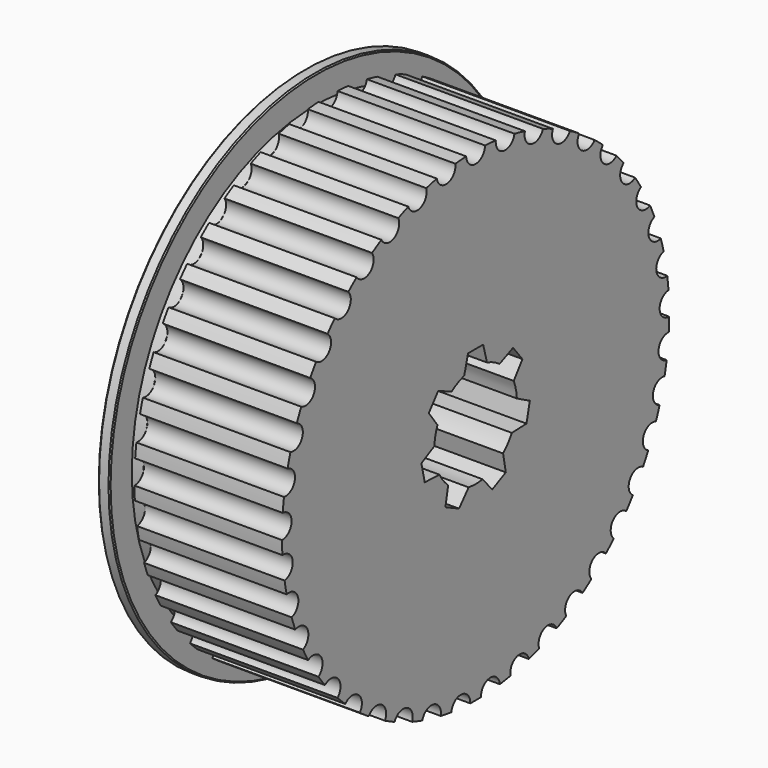
from build123d import *

# Parameters (mm, degrees)
F0_DEPTH  = 31.75
F1_R      = 49.611525
F2_DEPTH  = 2.54
F3_R      = 55.5625
F3_R_2    = 49.611525
F4_DEPTH  = 2.54
F2_FACE_R = 49.611525
F5_DEPTH  = 2.54
F6_SIZE   = 0.254
F8_DEPTH  = 36.831


with BuildPart() as f0:
    # F9 (on Right) → F0 (new body)
    with BuildSketch(Plane.YZ):
        with BuildLine():
            ThreePointArc((2.539244, 52.008049), (0, 49.53), (-2.539244, 52.008049))
            ThreePointArc((-2.539244, 52.008049), (-3.98592, 51.917216), (-5.429506, 51.78615))
            ThreePointArc((-5.429506, 51.78615), (-7.560719, 48.949529), (-10.448477, 51.010923))
            ThreePointArc((-10.448477, 51.010923), (-11.864332, 50.700321), (-13.270993, 50.350428))
            ThreePointArc((-13.270993, 50.350428), (-14.944221, 47.221723), (-18.112806, 48.818144))
            ThreePointArc((-18.112806, 48.818144), (-19.464655, 48.295053), (-20.80142, 47.734535))
            ThreePointArc((-20.80142, 47.734535), (-21.977444, 44.38708), (-25.352586, 45.481109))
            ThreePointArc((-25.352586, 45.481109), (-26.608743, 44.757789), (-27.844278, 43.999785))
            ThreePointArc((-27.844278, 43.999785), (-28.495533, 40.512041), (-31.998123, 41.078035))
            ThreePointArc((-31.998123, 41.078035), (-33.129144, 40.171442), (-34.234491, 39.233717))
            ThreePointArc((-34.234491, 39.233717), (-34.345712, 35.687435), (-37.893652, 35.712128))
            ThreePointArc((-37.893652, 35.712128), (-38.873026, 34.643509), (-39.822276, 33.548044))
            ThreePointArc((-39.822276, 33.548044), (-39.390856, 30.026345), (-42.900985, 29.509158))
            ThreePointArc((-42.900985, 29.509158), (-43.705758, 28.303562), (-44.476661, 27.076033))
            ThreePointArc((-44.476661, 27.076033), (-43.512712, 23.661463), (-46.902755, 22.614518))
            ThreePointArc((-46.902755, 22.614518), (-47.514063, 21.300204), (-48.08855, 19.969383))
            ThreePointArc((-48.08855, 19.969383), (-46.614667, 16.741976), (-49.805165, 15.189814))
            ThreePointArc((-49.805165, 15.189814), (-50.20868, 13.797587), (-50.573285, 12.394667))
            ThreePointArc((-50.573285, 12.394667), (-48.624013, 9.430072), (-51.540184, 7.409073))
            ThreePointArc((-51.540184, 7.409073), (-51.726447, 5.971566), (-51.872624, 4.529431))
            ThreePointArc((-51.872624, 4.529431), (-49.493654, 1.897134), (-52.067144, -0.545331))
            ThreePointArc((-52.067144, -0.545331), (-52.03179, -1.994423), (-51.956114, -3.441971))
            ThreePointArc((-51.956114, -3.441971), (-49.203206, -5.68027), (-51.373695, -8.486952))
            ThreePointArc((-51.373695, -8.486952), (-51.117552, -9.913665), (-50.821796, -11.332696))
            ThreePointArc((-50.821796, -11.332696), (-47.759476, -13.124534), (-49.47609, -16.229646))
            ThreePointArc((-49.47609, -16.229646), (-49.005162, -17.600539), (-48.496258, -18.957792))
            ThreePointArc((-48.496258, -18.957792), (-45.196304, -20.26117), (-46.418807, -23.591931))
            ThreePointArc((-46.418807, -23.591931), (-45.744133, -24.874871), (-45.034009, -26.138534))
            ThreePointArc((-45.034009, -26.138534), (-41.57377, -26.922901), (-42.273507, -30.401242))
            ThreePointArc((-42.273507, -30.401242), (-41.4109, -31.566157), (-40.516201, -32.70661))
            ThreePointArc((-40.516201, -32.70661), (-36.976781, -32.953582), (-37.137352, -36.497973))
            ThreePointArc((-37.137352, -36.497973), (-36.10703, -37.517559), (-35.048728, -38.508072))
            ThreePointArc((-35.048728, -38.508072), (-31.513088, -38.211859), (-31.130728, -41.739222))
            ThreePointArc((-31.130728, -41.739222), (-29.956843, -42.589582), (-28.759742, -43.406937))
            ThreePointArc((-28.759742, -43.406937), (-25.310755, -42.574483), (-24.394427, -46.002139))
            ThreePointArc((-24.394427, -46.002139), (-23.104492, -46.663341), (-21.796652, -47.28838))
            ThreePointArc((-21.796652, -47.28838), (-18.51516, -45.939196), (-17.086341, -49.186806))
            ThreePointArc((-17.086341, -49.186806), (-15.710592, -49.64335), (-14.322667, -50.061423))
            ThreePointArc((-14.322667, -50.061423), (-11.285584, -48.227134), (-9.377766, -51.218575))
            ThreePointArc((-9.377766, -51.218575), (-7.948448, -51.459762), (-6.512971, -51.66107))
            ThreePointArc((-6.512971, -51.66107), (-3.791484, -49.384669), (-1.449384, -52.049824))
            ThreePointArc((-1.449384, -52.049824), (0, -52.07), (1.449384, -52.049824))
            ThreePointArc((1.449384, -52.049824), (3.791484, -49.384669), (6.512971, -51.66107))
            ThreePointArc((6.512971, -51.66107), (7.948448, -51.459762), (9.377766, -51.218575))
            ThreePointArc((9.377766, -51.218575), (11.285584, -48.227134), (14.322667, -50.061423))
            ThreePointArc((14.322667, -50.061423), (15.710592, -49.64335), (17.086341, -49.186806))
            ThreePointArc((17.086341, -49.186806), (18.51516, -45.939196), (21.796652, -47.28838))
            ThreePointArc((21.796652, -47.28838), (23.104492, -46.663341), (24.394427, -46.002139))
            ThreePointArc((24.394427, -46.002139), (25.310755, -42.574483), (28.759742, -43.406937))
            ThreePointArc((28.759742, -43.406937), (29.956843, -42.589582), (31.130728, -41.739222))
            ThreePointArc((31.130728, -41.739222), (31.513088, -38.211859), (35.048728, -38.508072))
            ThreePointArc((35.048728, -38.508072), (36.10703, -37.517559), (37.137352, -36.497973))
            ThreePointArc((37.137352, -36.497973), (36.976781, -32.953582), (40.516201, -32.70661))
            ThreePointArc((40.516201, -32.70661), (41.4109, -31.566157), (42.273507, -30.401242))
            ThreePointArc((42.273507, -30.401242), (41.57377, -26.922901), (45.034009, -26.138534))
            ThreePointArc((45.034009, -26.138534), (45.744133, -24.874871), (46.418807, -23.591931))
            ThreePointArc((46.418807, -23.591931), (45.196304, -20.26117), (48.496258, -18.957792))
            ThreePointArc((48.496258, -18.957792), (49.005162, -17.600539), (49.47609, -16.229646))
            ThreePointArc((49.47609, -16.229646), (47.759476, -13.124534), (50.821796, -11.332696))
            ThreePointArc((50.821796, -11.332696), (51.117552, -9.913665), (51.373695, -8.486952))
            ThreePointArc((51.373695, -8.486952), (49.203206, -5.68027), (51.956114, -3.441971))
            ThreePointArc((51.956114, -3.441971), (52.03179, -1.994423), (52.067144, -0.545331))
            ThreePointArc((52.067144, -0.545331), (49.493654, 1.897134), (51.872624, 4.529431))
            ThreePointArc((51.872624, 4.529431), (51.726447, 5.971566), (51.540184, 7.409073))
            ThreePointArc((51.540184, 7.409073), (48.624013, 9.430072), (50.573285, 12.394667))
            ThreePointArc((50.573285, 12.394667), (50.20868, 13.797587), (49.805165, 15.189814))
            ThreePointArc((49.805165, 15.189814), (46.614667, 16.741976), (48.08855, 19.969383))
            ThreePointArc((48.08855, 19.969383), (47.514063, 21.300204), (46.902755, 22.614518))
            ThreePointArc((46.902755, 22.614518), (43.512712, 23.661463), (44.476661, 27.076033))
            ThreePointArc((44.476661, 27.076033), (43.705758, 28.303562), (42.900985, 29.509158))
            ThreePointArc((42.900985, 29.509158), (39.390856, 30.026345), (39.822276, 33.548044))
            ThreePointArc((39.822276, 33.548044), (38.873026, 34.643509), (37.893652, 35.712128))
            ThreePointArc((37.893652, 35.712128), (34.345712, 35.687435), (34.234491, 39.233717))
            ThreePointArc((34.234491, 39.233717), (33.129144, 40.171442), (31.998123, 41.078035))
            ThreePointArc((31.998123, 41.078035), (28.495533, 40.512041), (27.844278, 43.999785))
            ThreePointArc((27.844278, 43.999785), (26.608743, 44.757789), (25.352586, 45.481109))
            ThreePointArc((25.352586, 45.481109), (21.977444, 44.38708), (20.80142, 47.734535))
            ThreePointArc((20.80142, 47.734535), (19.464655, 48.295053), (18.112806, 48.818144))
            ThreePointArc((18.112806, 48.818144), (14.944221, 47.221723), (13.270993, 50.350428))
            ThreePointArc((13.270993, 50.350428), (11.864332, 50.700321), (10.448477, 51.010923))
            ThreePointArc((10.448477, 51.010923), (7.560719, 48.949529), (5.429506, 51.78615))
            ThreePointArc((5.429506, 51.78615), (3.98592, 51.917216), (2.539244, 52.008049))
        make_face()
    extrude(amount=F0_DEPTH)

    # F1 (on Right) → F2 (join)
    with BuildSketch(Plane.YZ):
        Circle(F1_R)
    extrude(amount=-F2_DEPTH)


with BuildPart() as f4:
    # F3 (on face) → F4 (new body)
    with BuildSketch(Plane(origin=(-2.54, 0, 0), x_dir=(0, -1, 0), z_dir=(-1, 0, 0))):
        Circle(F3_R)
        Circle(F3_R_2, mode=Mode.SUBTRACT)
    extrude(amount=F4_DEPTH)

    # F6
    f6_edges = [f4.edges().sort_by_distance(p)[0] for p in [
        (-2.54, 55.5625, 0),
        (-5.08, 55.5625, 0),
    ]]
    chamfer(f6_edges, length=F6_SIZE)


with BuildPart() as f5:
    # F2_face (on face) → F5 (new body)
    with BuildSketch(Plane(origin=(-2.54, 0, 0), x_dir=(0, 1, 0), z_dir=(-1, 0, 0))):
        Circle(F2_FACE_R)
    extrude(amount=F5_DEPTH)


with BuildPart() as f8_tool:
    # F7 (on face) → F8 (new body, through all)
    with BuildSketch(Plane(origin=(-5.08, 0, 0), x_dir=(0, -1, 0), z_dir=(-1, 0, 0))):
        with BuildLine():
            Line((-2.032, 14.4942), (-3.05541, 10.6842))
            ThreePointArc((-3.05541, 10.6842), (-4.821533, 10.012017), (-6.448227, 9.050305))
            Line((-6.448227, 9.050305), (-10.06509, 10.625667))
            Line((-10.06509, 10.625667), (-12.598953, 7.448304))
            Line((-12.598953, 7.448304), (-10.258261, 4.272674))
            ThreePointArc((-10.258261, 4.272674), (-10.833886, 2.472764), (-11.096217, 0.601346))
            Line((-11.096217, 0.601346), (-14.582963, -1.244209))
            Line((-14.582963, -1.244209), (-13.678637, -5.206316))
            Line((-13.678637, -5.206316), (-9.736432, -5.356263))
            ThreePointArc((-9.736432, -5.356263), (-8.688102, -6.92853), (-7.38853, -8.300439))
            Line((-7.38853, -8.300439), (-8.119566, -12.177171))
            Line((-8.119566, -12.177171), (-4.458029, -13.940475))
            Line((-4.458029, -13.940475), (-1.882871, -10.951824))
            ThreePointArc((-1.882871, -10.951824), (0, -11.1125), (1.882871, -10.951824))
            Line((1.882871, -10.951824), (4.458029, -13.940475))
            Line((4.458029, -13.940475), (8.119566, -12.177171))
            Line((8.119566, -12.177171), (7.38853, -8.300439))
            ThreePointArc((7.38853, -8.300439), (8.688102, -6.92853), (9.736432, -5.356263))
            Line((9.736432, -5.356263), (13.678637, -5.206316))
            Line((13.678637, -5.206316), (14.582963, -1.244209))
            Line((14.582963, -1.244209), (11.096217, 0.601346))
            ThreePointArc((11.096217, 0.601346), (10.833886, 2.472764), (10.258261, 4.272674))
            Line((10.258261, 4.272674), (12.598953, 7.448304))
            Line((12.598953, 7.448304), (10.06509, 10.625667))
            Line((10.06509, 10.625667), (6.448227, 9.050305))
            ThreePointArc((6.448227, 9.050305), (4.821533, 10.012017), (3.05541, 10.6842))
            Line((3.05541, 10.6842), (2.032, 14.4942))
            Line((2.032, 14.4942), (-2.032, 14.4942))
        make_face()
    extrude(amount=-F8_DEPTH)


with BuildPart() as f0_1:
    add(f0.part)

    # F8: cut by f8_tool
    add(f8_tool.part, mode=Mode.SUBTRACT)


with BuildPart() as f5_1:
    add(f5.part)

    # F8: cut by f8_tool
    add(f8_tool.part, mode=Mode.SUBTRACT)


solid = Compound([f4.part, f0_1.part, f5_1.part])
